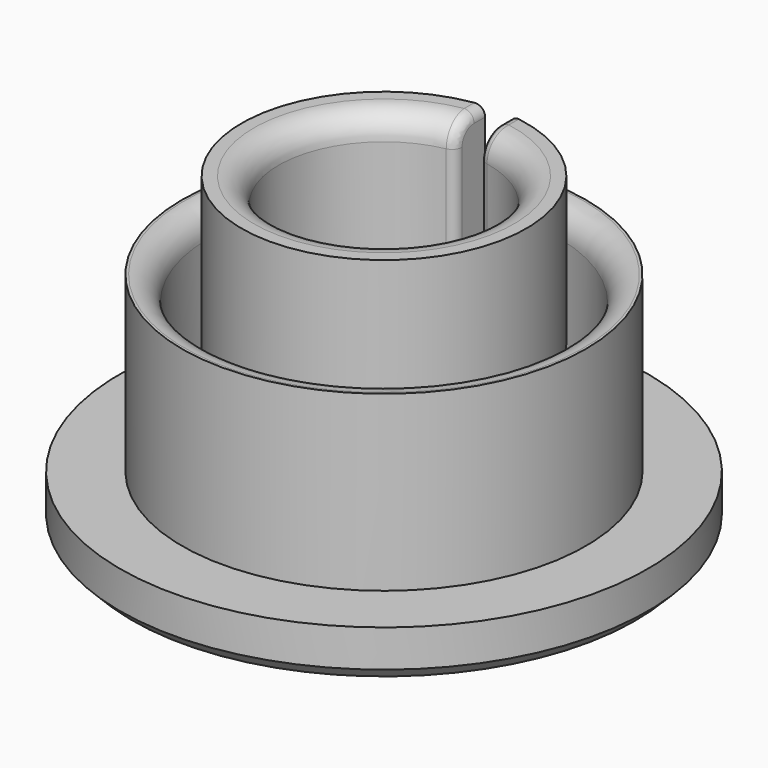
from build123d import *

# Parameters (mm, degrees)
SKETCH001_W     = 2
SKETCH001_H     = 40
POCKET_DEPTH    = 13.490788
FILLET_R        = 0.8
FILLET001_R     = 0.5
SKETCH003_W     = 2
SKETCH003_H     = 40
POCKET001_DEPTH = 21.301
FILLET003_R     = 0.8
FILLET002_R     = 0.5


with BuildPart() as body:
    # Sketch → Revolution (revolve)
    with BuildSketch(Plane.XZ):
        with BuildLine():
            Line((10.347241, 0), (12.347241, 0))
            Line((12.347241, 0), (13.489788, 1.142547))
            ThreePointArc((13.489788, 1.142547), (13.154772, 1.755827), (12.5, 2))
            Line((11.5, 2), (12.5, 2))
            Line((11.5, 25), (11.5, 2))
            Line((10.5, 25), (11.5, 25))
            ThreePointArc((10.5, 25), (9.085786, 24.414214), (8.5, 23))
            Line((8.5, 3.089881), (8.5, 23))
            ThreePointArc((8.5, 3.089881), (8.728361, 1.941831), (9.37868, 0.968561))
            Line((10.347241, 0), (9.37868, 0.968561))
        make_face()
    revolve(axis=Axis((0, 0, 0), (0, 0, 1)))

    # Sketch001 → Pocket (cut, through all)
    with BuildSketch(Plane.XZ):
        with Locations((0, 20)):
            Rectangle(SKETCH001_W, SKETCH001_H)
    extrude(amount=-POCKET_DEPTH, mode=Mode.SUBTRACT)

    # Fillet
    fillet_edges = [body.edges().sort_by_distance(p)[0] for p in [
        (-1, 9.032325, 24.415938),
        (1, 9.032325, 24.415938),
    ]]
    fillet(fillet_edges, radius=FILLET_R)

    # Fillet001
    fillet001_edges = [body.edges().sort_by_distance(p)[0] for p in [
        (1, 12.879714, 0.571235),
        (-1, 12.879714, 0.571235),
    ]]
    fillet(fillet001_edges, radius=FILLET001_R)


with BuildPart() as body001:
    # Sketch002 → Revolution001 (revolve)
    with BuildSketch(Plane.XZ):
        with BuildLine():
            Line((16.564466, 0), (20.3, 0))
            Line((20.3, 0), (21.3, 1))
            Line((21.3, 4), (21.3, 1))
            Line((16.3, 4), (21.3, 4))
            Line((16.3, 18), (16.3, 4))
            Line((16.1, 18), (16.3, 18))
            ThreePointArc((16.1, 18), (14.685786, 17.414214), (14.1, 16))
            Line((14.1, 4.949747), (14.1, 16))
            ThreePointArc((14.1, 4.949747), (14.556723, 2.653647), (15.857359, 0.707107))
            Line((16.564466, 0), (15.857359, 0.707107))
        make_face()
    revolve(axis=Axis((0, 0, 0), (0, 0, 1)))

    # Sketch003 → Pocket001 (cut, through all)
    with BuildSketch(Plane.XZ):
        with Locations((0, 20)):
            Rectangle(SKETCH003_W, SKETCH003_H)
    extrude(amount=-POCKET001_DEPTH, mode=Mode.SUBTRACT)

    # Fillet003
    fillet003_edges = [body001.edges().sort_by_distance(p)[0] for p in [
        (-1, 14.652418, 17.414929),
        (1, 14.652418, 17.414929),
    ]]
    fillet(fillet003_edges, radius=FILLET003_R)

    # Fillet002
    fillet002_edges = [body001.edges().sort_by_distance(p)[0] for p in [
        (1, 20.775941, 0.499993),
        (-1, 20.775941, 0.499993),
    ]]
    fillet(fillet002_edges, radius=FILLET002_R)


solid = Compound([body.part, body001.part])
